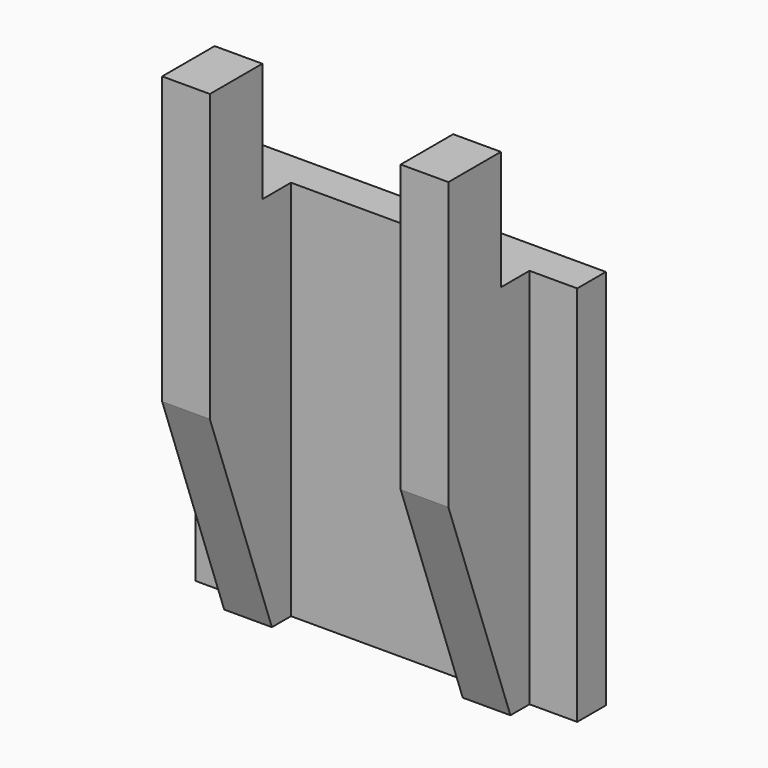
from build123d import *

# Parameters (mm, degrees)
F0_W     = 203.2
F0_H     = 203.2
F1_DEPTH = 9.525
F3_DEPTH = 76.2
F4_W     = 38.1
F4_H     = 63.5
F5_DEPTH = 101.6
F6_W     = 101.6
F6_H     = 190.5
F6_H_2   = 152.4
F7_DEPTH = 53.975


with BuildPart() as f1:
    # F0 (on Front) → F1 (new body, symmetric)
    with BuildSketch(Plane.XZ):
        Rectangle(F0_W, F0_H)
    extrude(amount=F1_DEPTH, both=True)

    # F2 (on Right) → F3 (join, symmetric)
    with BuildSketch(Plane.YZ):
        Polygon((-9.525, -101.6), (-9.525, 165.1), (-63.5, 165.1), (-63.5, 12.7), (-22.225, -101.6), align=None)
    extrude(amount=F3_DEPTH, both=True)

    # F4 (on Right) → F5 (cut, symmetric)
    with BuildSketch(Plane.YZ):
        with Locations((-9.525, 133.35)):
            Rectangle(F4_W, F4_H)
    extrude(amount=F5_DEPTH, both=True, mode=Mode.SUBTRACT)

    # F6 (on face) → F7 (cut, through all)
    with BuildSketch(Plane.XZ.offset(63.5)):
        with Locations((0, -82.55)):
            Rectangle(F6_W, F6_H)
        with Locations((0, 88.9)):
            Rectangle(F6_W, F6_H_2)
    extrude(amount=-F7_DEPTH, mode=Mode.SUBTRACT)


solid = f1.part
